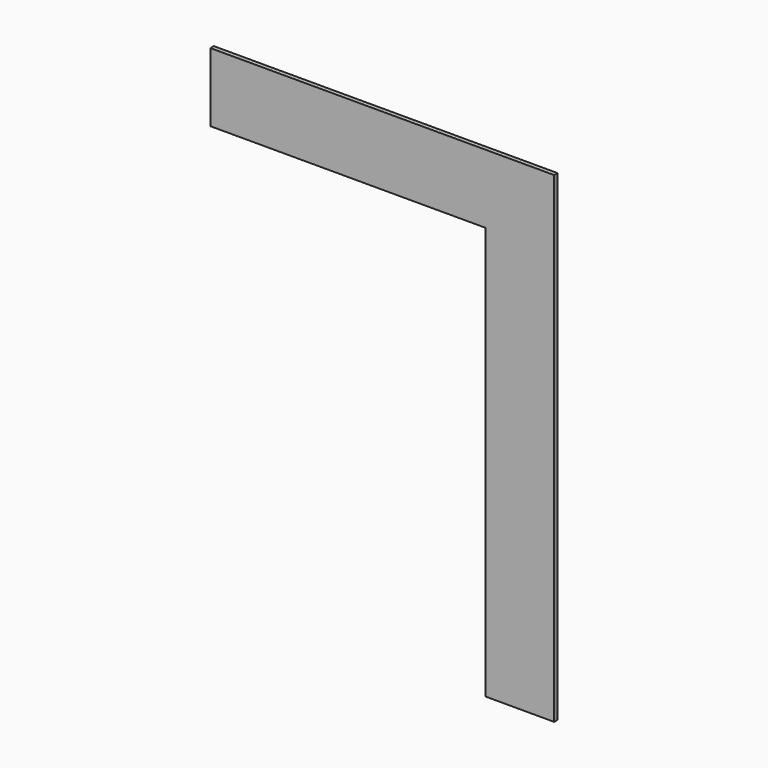
from build123d import *

# Parameters (mm, degrees)
F0_W     = 50.8
F0_H     = 304.8
F1_DEPTH = 3.175


with BuildPart() as f1:
    # F0 (on Front) → F1 (new body)
    with BuildSketch(Plane.XZ):
        with Locations((-25.4, 152.4)):
            Rectangle(F0_W, F0_H)
        Polygon((-50.8, 304.8), (0, 304.8), (0, 355.6), (-254, 355.6), (-254, 304.8), align=None)
    extrude(amount=-F1_DEPTH)


solid = f1.part
